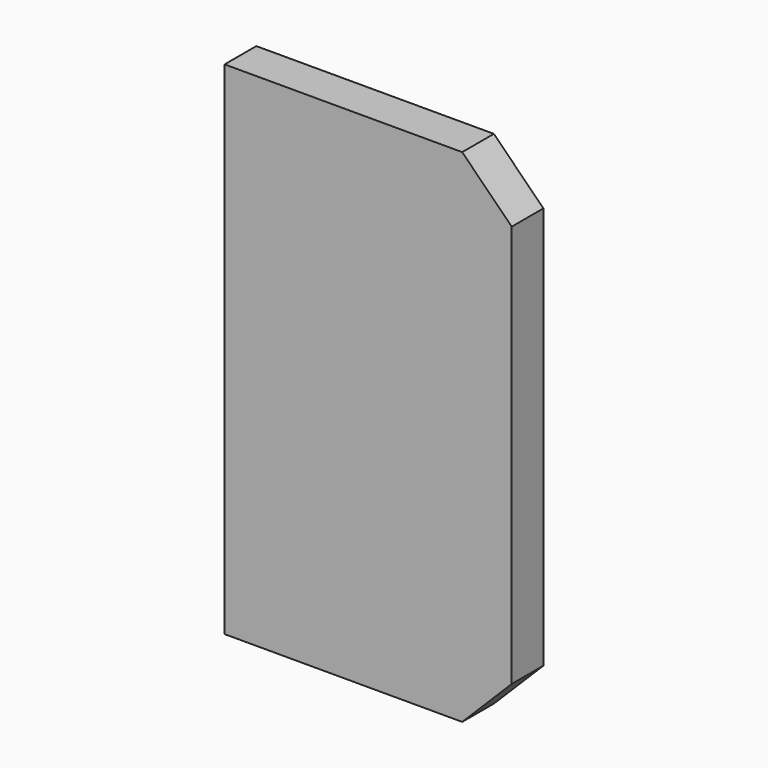
from build123d import *

# Parameters (mm, degrees)
F0_W     = 87
F0_H     = 152
F1_DEPTH = 12
F2_SIZE  = 15


with BuildPart() as f1:
    # F0 (on Front) → F1 (new body)
    with BuildSketch(Plane.XZ):
        with Locations((43.5, 76)):
            Rectangle(F0_W, F0_H)
    extrude(amount=F1_DEPTH)

    # F2
    f2_edges = [f1.edges().sort_by_distance(p)[0] for p in [
        (87, -6, 152),
        (87, -6, 0),
    ]]
    chamfer(f2_edges, length=F2_SIZE)


solid = f1.part
